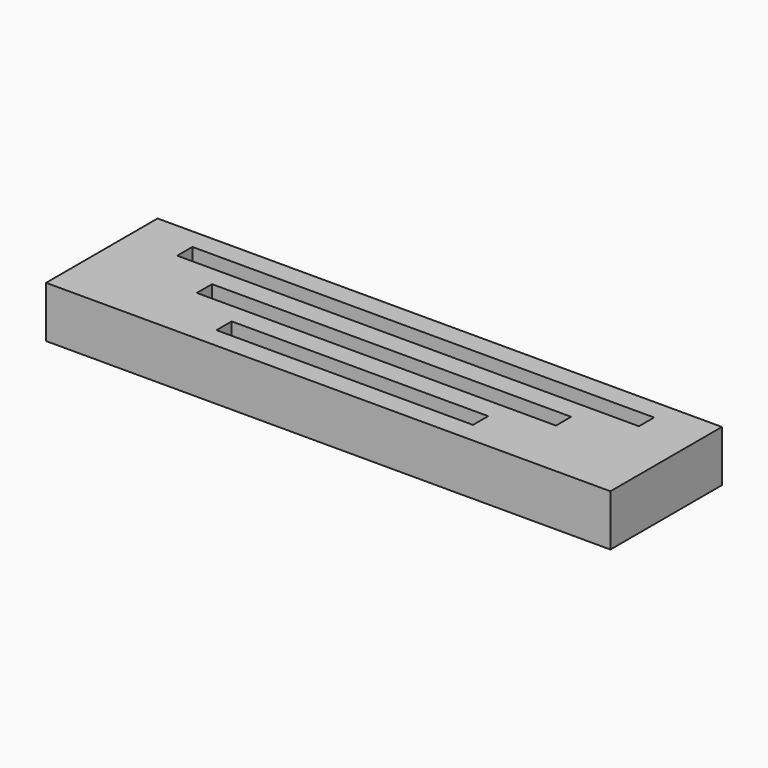
from build123d import *

# Parameters (mm, degrees)
F0_W     = 279.4
F0_H     = 69
F0_W_2   = 127
F0_H_2   = 9.398
F0_W_3   = 177.8
F0_W_4   = 228.6
F1_DEPTH = 25.4


with BuildPart() as f1:
    # F0 (on Top) → F1 (new body)
    with BuildSketch(Plane.XY):
        with Locations((78.709978, 4.699)):
            Rectangle(F0_W, F0_H)
        with Locations((78.709978, -14.9005)):
            Rectangle(F0_W_2, F0_H_2, mode=Mode.SUBTRACT)
        with Locations((78.709978, 4.699)):
            Rectangle(F0_W_3, F0_H_2, mode=Mode.SUBTRACT)
        with Locations((78.709978, 24.2985)):
            Rectangle(F0_W_4, F0_H_2, mode=Mode.SUBTRACT)
    extrude(amount=F1_DEPTH)


solid = f1.part
